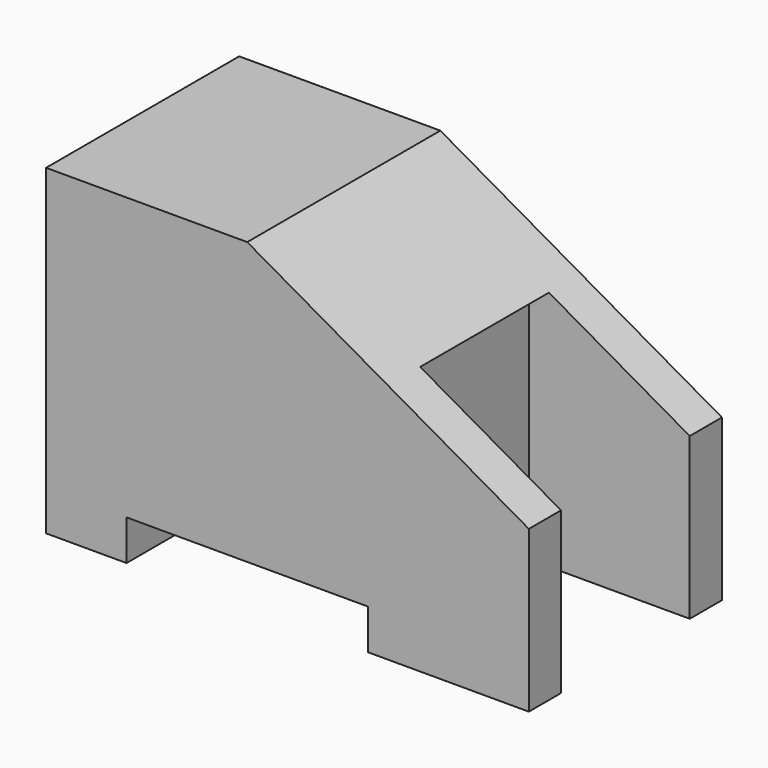
from build123d import *

# Parameters (mm, degrees)
F1_DEPTH = 15
F2_W     = 10
F2_H     = 15
F3_DEPTH = 10


with BuildPart() as f1:
    # F0 (on Front) → F1 (new body)
    with BuildSketch(Plane.XZ):
        Polygon((0, 20), (0, 0), (5, 0), (5, 2.5), (20, 2.5), (20, 0), (30, 0), (30, 10), (12.5, 20), align=None)
    extrude(amount=F1_DEPTH)

    # F2 (on face) → F3 (cut)
    with BuildSketch(Plane.YZ.offset(30)):
        with Locations((-7.5, 7.5)):
            Rectangle(F2_W, F2_H)
    extrude(amount=-F3_DEPTH, mode=Mode.SUBTRACT)


solid = f1.part
